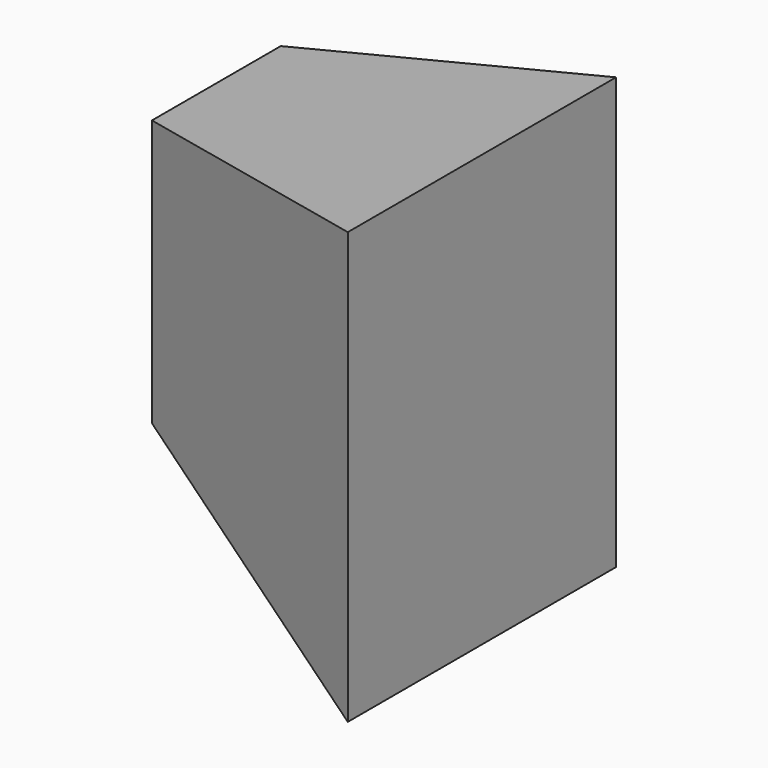
from build123d import *

# Parameters (mm, degrees)
F0_W     = 2800
F0_H     = 3600
F1_DEPTH = 2800
F3_DEPTH = 2800
F5_DEPTH = 3600.001
F7_DEPTH = 2800


with BuildPart() as f1:
    # F0 (on Front) → F1 (new body)
    with BuildSketch(Plane.XZ):
        with Locations((-14.6795958281, 893.7970971422)):
            Rectangle(F0_W, F0_H)
    extrude(amount=F1_DEPTH)

    # F2 (on face) → F3 (cut, through all)
    with BuildSketch(Plane(origin=(0, 0, 0), x_dir=(-1, 0, 0), z_dir=(0, 1, 0))):
        Polygon((1414.6795958281, 2693.7970971422), (-1385.3204041719, 2693.7970971422), (1414.6795958281, 2012.7970971422), align=None)
    extrude(amount=-F3_DEPTH, mode=Mode.SUBTRACT)

    # F4 (on face) → F5 (cut, through all)
    with BuildSketch(Plane(origin=(0, 0, -906.2029028578), x_dir=(1, 0, 0), z_dir=(0, 0, -1))):
        Polygon((1385.3204041719, 2800), (-1414.6795958281, 2800), (-1414.6795958281, 1344), align=None)
    extrude(amount=-F5_DEPTH, mode=Mode.SUBTRACT)

    # F6 (on face) → F7 (cut)
    with BuildSketch(Plane(origin=(0, 0, 0), x_dir=(-1, 0, 0), z_dir=(0, 1, 0))):
        Polygon((-1385.3204041719, -906.2029028578), (1414.6795958281, -906.2029028578), (1414.6795958281, -213.2029028578), align=None)
    extrude(amount=-F7_DEPTH, mode=Mode.SUBTRACT)


solid = f1.part
